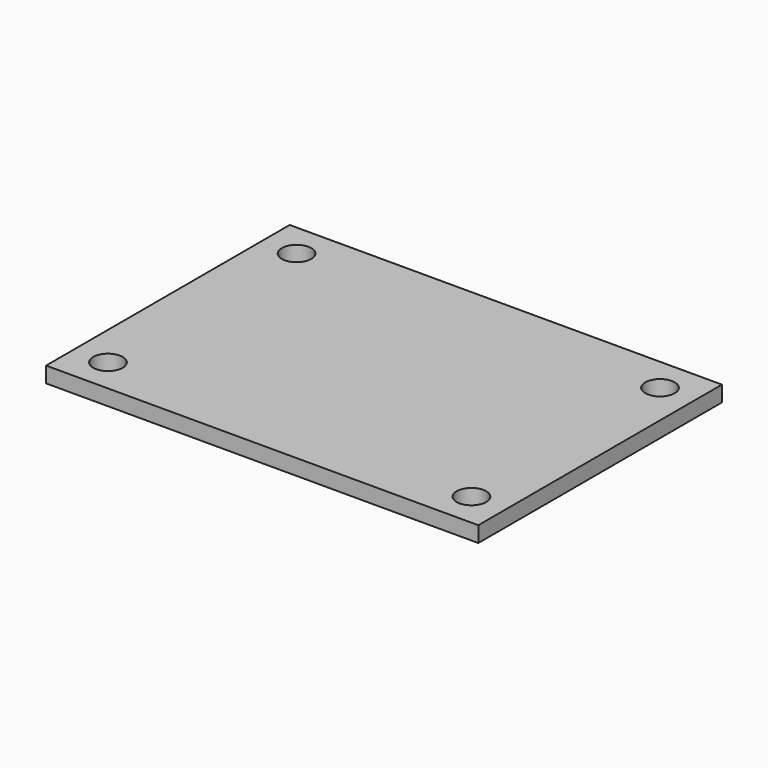
from build123d import *

# Parameters (mm, degrees)
F0_W     = 44
F0_H     = 31
F0_R     = 1.5
F1_DEPTH = 1.6


with BuildPart() as f1:
    # F0 (on Top) → F1 (new body)
    with BuildSketch(Plane.XY):
        with Locations((-22, 15.5)):
            Rectangle(F0_W, F0_H)
        with Locations((-40.5, 3.5)):
            Circle(F0_R, mode=Mode.SUBTRACT)
        with Locations((-3.5, 3.5)):
            Circle(F0_R, mode=Mode.SUBTRACT)
        with Locations((-40.5, 27.5)):
            Circle(F0_R, mode=Mode.SUBTRACT)
        with Locations((-3.5, 27.5)):
            Circle(F0_R, mode=Mode.SUBTRACT)
    extrude(amount=-F1_DEPTH)


solid = f1.part
